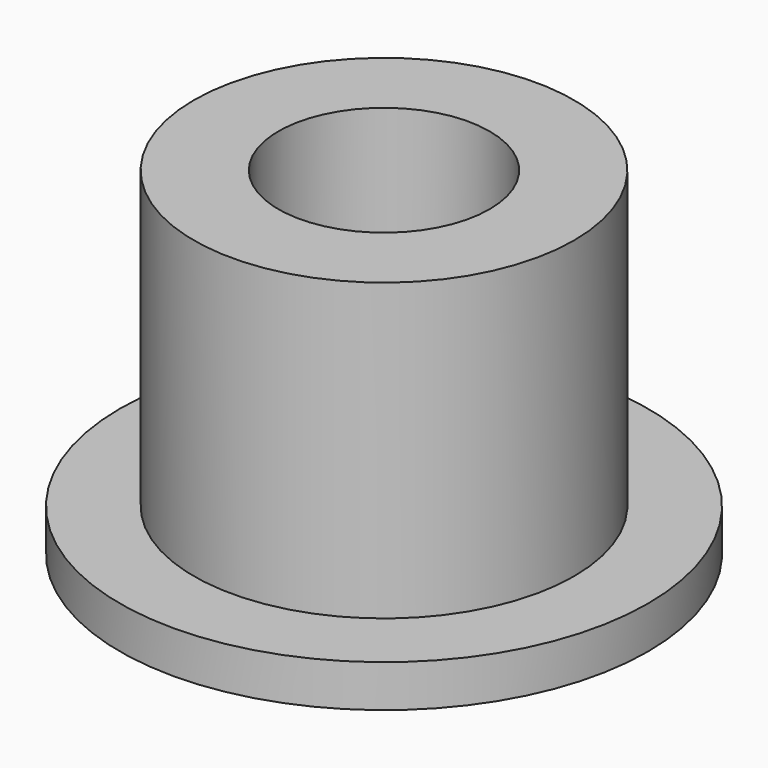
from build123d import *

# Parameters (mm, degrees)
F0_R     = 9
F0_R_2   = 5
F1_DEPTH = 14
F2_R     = 12.5
F2_R_2   = 5.083176
F3_DEPTH = 2


with BuildPart() as f1:
    # F0 (on Top) → F1 (new body)
    with BuildSketch(Plane.XY):
        Circle(F0_R)
        Circle(F0_R_2, mode=Mode.SUBTRACT)
    extrude(amount=F1_DEPTH)

    # F2 (on Top) → F3 (join)
    with BuildSketch(Plane.XY):
        Circle(F2_R)
        Circle(F2_R_2, mode=Mode.SUBTRACT)
    extrude(amount=-F3_DEPTH)


solid = f1.part
